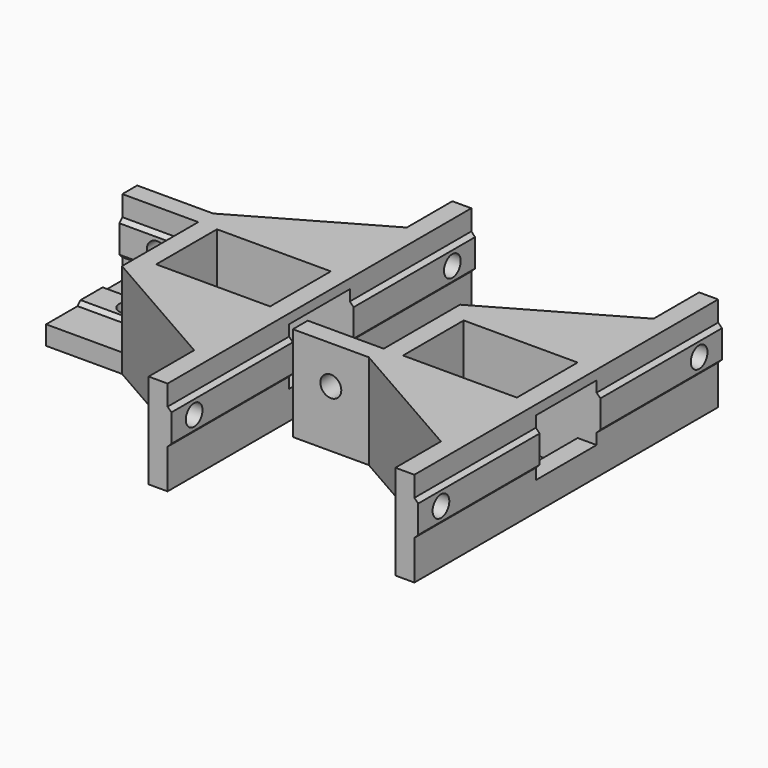
from build123d import *

# Parameters (mm, degrees)
F1_DEPTH      = 25
F3_DEPTH      = 100
F4_W          = 20
F4_H          = 3.86
F4_H_2        = 7.28
F5_DEPTH      = 35
F5_DEPTH_BACK = 10
F6_W          = 30
F6_H          = 20
F7_DEPTH      = 25.001
F10_D         = 5.5
F10_ON_F9_D   = 5.5
F12_DEPTH     = 20
F15_D         = 5.5
F15_ON_F13_D  = 5.5
F17_W         = 20
F17_H         = 20
F17_R         = 2.75
F18_DEPTH     = 5.9
F19_W         = 20
F19_H         = 20
F19_R         = 2.75
F20_DEPTH     = 5.9


with BuildPart() as f1:
    # F0 (on Top) → F1 (new body)
    with BuildSketch(Plane.XY):
        Polygon((15, -50), (20, -50), (20, 50), (15, 50), (15, 35), (-20, 15), (-20, 10), (-20, -10), (-20, -15), (15, -35), align=None)
    extrude(amount=F1_DEPTH)

    # F2 (on face) → F3 (join, through all)
    with BuildSketch(Plane.XZ.offset(50)):
        Polygon((21, 18.64), (20, 19.64), (20, 10.36), (21, 11.36), align=None)
    extrude(amount=-F3_DEPTH)

    # F4 (on face) → F5 (cut, two sides)
    with BuildSketch(Plane.YZ.offset(21)) as f5_sk:
        with Locations((0, 20.57)):
            Rectangle(F4_W, F4_H)
        with Locations((0, 9.43)):
            Rectangle(F4_W, F4_H)
        with Locations((0, 15)):
            Rectangle(F4_W, F4_H_2)
    extrude(amount=-F5_DEPTH, mode=Mode.SUBTRACT)
    extrude(f5_sk.sketch, amount=F5_DEPTH_BACK, mode=Mode.SUBTRACT)

    # F6 (on face) → F7 (cut, through all)
    with BuildSketch(Plane.XY.offset(25)):
        Rectangle(F6_W, F6_H)
    extrude(amount=-F7_DEPTH, mode=Mode.SUBTRACT)

    # F10 (through all)
    with Locations(Plane(origin=(15, 0, 0), x_dir=(0, -1, 0), z_dir=(-1, 0, 0))):
        with Locations((-42.5, 15), (42.5, 15)):
            Hole(F10_D / 2)

    # F10 on F9 (through all)
    with Locations(Plane(origin=(-20, 0, 0), x_dir=(0, -1, 0), z_dir=(-1, 0, 0))):
        with Locations((0, 15)):
            Hole(F10_ON_F9_D / 2)

    # F11 (on face) → F12 (join)
    with BuildSketch(Plane(origin=(-20, 0, 0), x_dir=(0, -1, 0), z_dir=(-1, 0, 0))):
        Polygon((-4.64, 5), (-10.1, 5), (-10.1, 10.36), (-10.1, 19.64), (-10.1, 25), (-15, 25), (-15, 0), (15, 0), (15, 25), (10.1, 25), (10.1, 19.64), (10.1, 10.36), (10.1, 5), (4.64, 5), align=None)
        Polygon((-10.1, 19.64), (-10.1, 10.36), (-9.1, 11.36), (-9.1, 18.64), align=None)
        Polygon((-3.64, 6), (-4.64, 5), (4.64, 5), (3.64, 6), align=None)
        Polygon((9.1, 11.36), (10.1, 10.36), (10.1, 19.64), (9.1, 18.64), align=None)
    extrude(amount=F12_DEPTH)

    # F15 (through all)
    with Locations(Plane.XZ.offset(15)):
        with Locations((-30, 15)):
            Hole(F15_D / 2)

    # F15 on F13 (through all)
    with Locations(Plane(origin=(0, 0, 0), x_dir=(1, 0, 0), z_dir=(0, 0, -1))):
        with Locations((-30, 0)):
            Hole(F15_ON_F13_D / 2)


with BuildPart() as f16_1:
    # F16: copy of F1
    add(f1.part.moved(Location((65, 0, 0))))

    # F19 (on face) → F20 (cut, through all)
    with BuildSketch(Plane(origin=(0, 15, 0), x_dir=(-1, 0, 0), z_dir=(0, 1, 0))):
        with Locations((-35, 15)):
            Rectangle(F19_W, F19_H)
        with Locations((-35, 15)):
            Circle(F19_R, mode=Mode.SUBTRACT)
    extrude(amount=-F20_DEPTH, mode=Mode.SUBTRACT)


with BuildPart() as f1_1:
    add(f1.part)

    # F17 (on face) → F18 (cut, through all)
    with BuildSketch(Plane.XZ.offset(15)):
        with Locations((-30, 15)):
            Rectangle(F17_W, F17_H)
        with Locations((-30, 15)):
            Circle(F17_R, mode=Mode.SUBTRACT)
    extrude(amount=-F18_DEPTH, mode=Mode.SUBTRACT)


solid = Compound([f16_1.part, f1_1.part])
